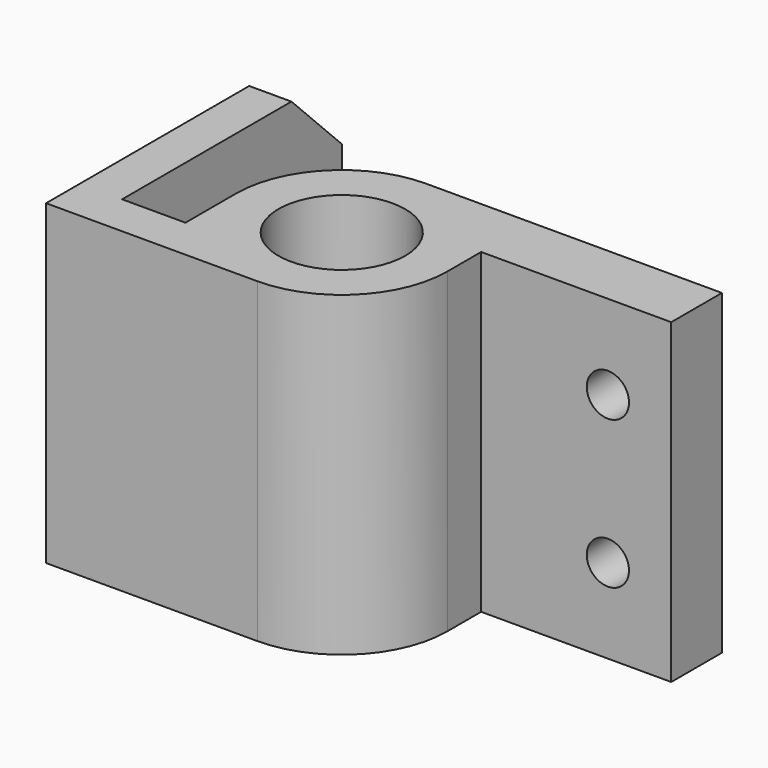
from build123d import *

# Parameters (mm, degrees)
F0_R     = 15
F1_DEPTH = 75
F2_R     = 5
F3_DEPTH = 15
F4_R     = 10
F5_DEPTH = 25


with BuildPart() as f1:
    # F0 (on Top) → F1 (new body)
    with BuildSketch(Plane.XY):
        with BuildLine():
            Line((-50, -25), (0, -25))
            ThreePointArc((0, -25), (17.67767, -17.67767), (25, 0))
            Line((25, 0), (25, 10))
            Line((25, 10), (70, 10))
            Line((70, 10), (70, 25))
            Line((70, 25), (0, 25))
            ThreePointArc((0, 25), (-17.67767, 17.67767), (-25, 0))
            Line((-25, 0), (-25, -15))
            Line((-25, -15), (-40, -15))
            Line((-40, -15), (-40, 50.105155))
            Line((-40, 50.105155), (-50, 50.105155))
            Line((-50, 50.105155), (-50, -25))
        make_face()
        Circle(F0_R, mode=Mode.SUBTRACT)
    extrude(amount=F1_DEPTH)

    # F2 (on face) → F3 (cut)
    with BuildSketch(Plane(origin=(0, 25, 0), x_dir=(-1, 0, 0), z_dir=(0, 1, 0))):
        with Locations((-55, 20)):
            Circle(F2_R)
        with Locations((-55, 55)):
            Circle(F2_R)
    extrude(amount=-F3_DEPTH, mode=Mode.SUBTRACT)

    # F4 (on face) → F5 (cut)
    with BuildSketch(Plane.YZ.offset(-40)):
        with Locations((15.194554, 40)):
            Circle(F4_R)
        Polygon((35.105155, 75), (50.105155, 60), (50.105155, 75), align=None)
        Polygon((50.105155, 0), (50.105155, 15), (35.105155, 0), align=None)
    extrude(amount=-F5_DEPTH, mode=Mode.SUBTRACT)


solid = f1.part
